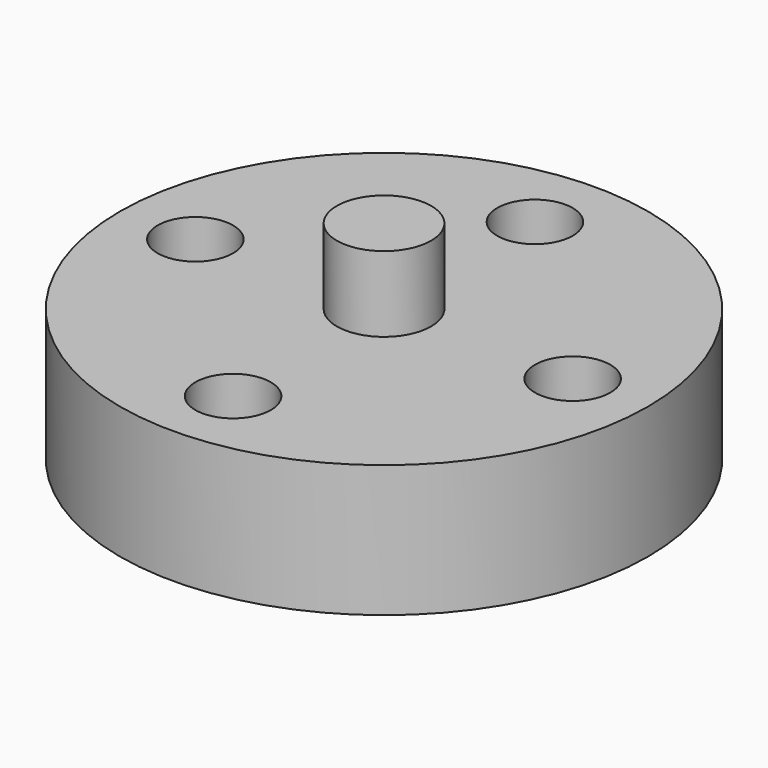
from build123d import *

# Parameters (mm, degrees)
SKETCH_R     = 14
SKETCH_R_2   = 2
PAD_DEPTH    = 7
SKETCH001_R  = 2.5
PAD001_DEPTH = 4


with BuildPart() as part:
    # Sketch → Pad (new body)
    with BuildSketch(Plane.XY):
        Circle(SKETCH_R)
        with Locations((0, 10)):
            Circle(SKETCH_R_2, mode=Mode.SUBTRACT)
        with Locations((0, -10)):
            Circle(SKETCH_R_2, mode=Mode.SUBTRACT)
        with Locations((-10, 0)):
            Circle(SKETCH_R_2, mode=Mode.SUBTRACT)
        with Locations((10, 0)):
            Circle(SKETCH_R_2, mode=Mode.SUBTRACT)
    extrude(amount=PAD_DEPTH)

    # Sketch001 (on Face7 of Pad) → Pad001 (join)
    with BuildSketch(Plane.XY.offset(7)):
        Circle(SKETCH001_R)
    extrude(amount=PAD001_DEPTH)


solid = part.part
